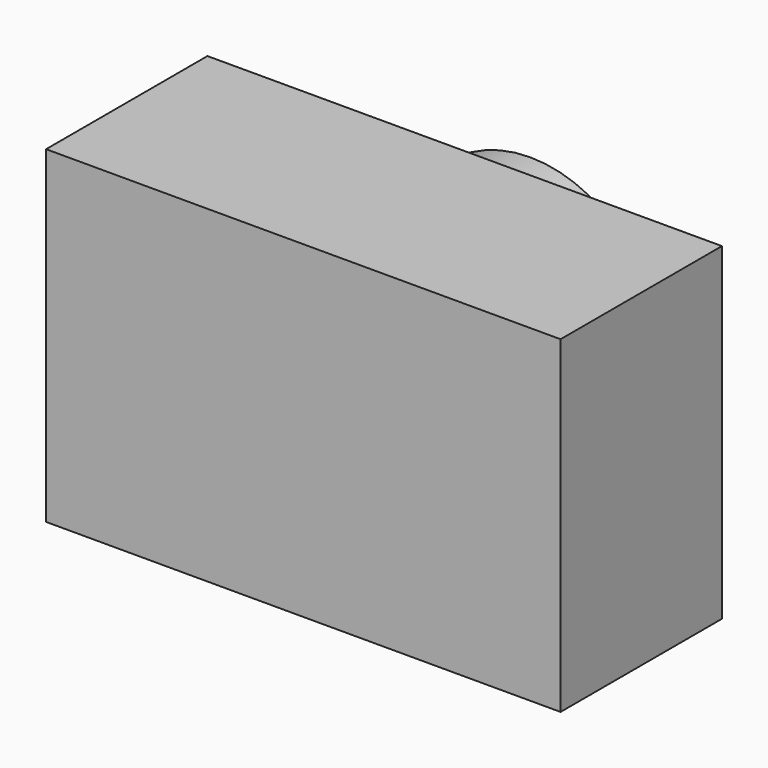
from build123d import *

# Parameters (mm, degrees)
F0_W     = 65.434128046
F0_H     = 41.7352281511
F1_DEPTH = 25.4
F2_R     = 15.9425701821
F3_DEPTH = 7.366
F4_DEPTH = 0.254
F5_DEPTH = 3.302


with BuildPart() as f1:
    # F0 (on Front) → F1 (new body)
    with BuildSketch(Plane.XZ):
        Rectangle(F0_W, F0_H)
    extrude(amount=F1_DEPTH)

    # F2 (on face) → F3 (join)
    with BuildSketch(Plane(origin=(0, 0, 0), x_dir=(-1, 0, 0), z_dir=(0, 1, 0))):
        Circle(F2_R)
    extrude(amount=F3_DEPTH)

    # F4 (add): a face of the model
    f4_faces = [f1.faces().sort_by_distance(p)[0] for p in [
        (31.9409548566, 0, 0),
    ]]
    extrude(f4_faces, amount=F4_DEPTH)

    # F5 (add): a face of the model
    f5_faces = [f1.faces().sort_by_distance(p)[0] for p in [
        (0, 7.366, 0),
    ]]
    extrude(f5_faces, amount=F5_DEPTH)


solid = f1.part
